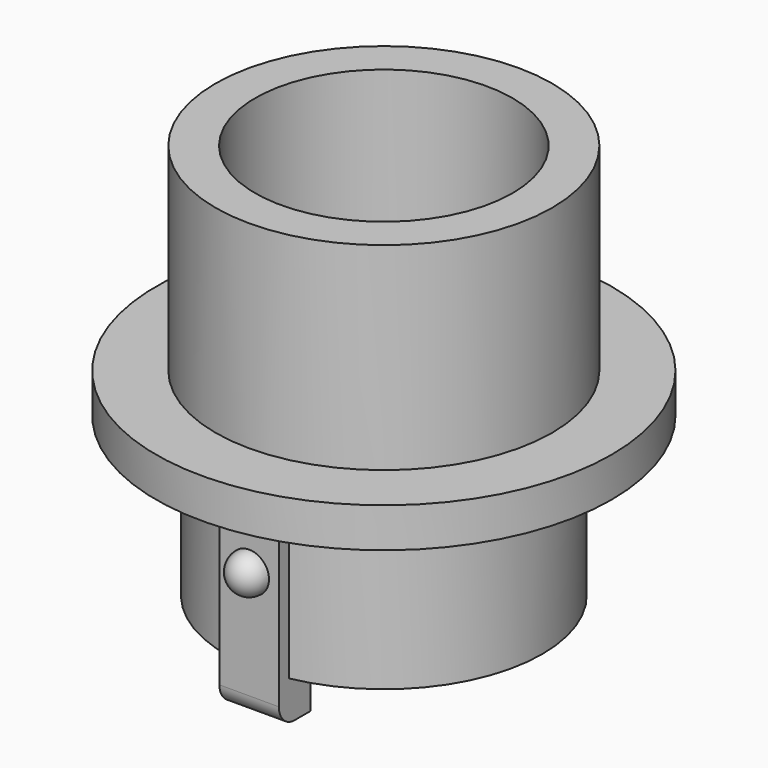
from build123d import *

# Parameters (mm, degrees)
SKETCH140_R         = 11.5
SKETCH140_R_2       = 6.5
PAD054_DEPTH        = 2
SKETCH141_R         = 8.5
SKETCH141_R_2       = 6.5
PAD055_DEPTH        = 10
SKETCH142_W         = 3
SKETCH142_H         = 2
PAD056_DEPTH        = 10
REVOLUTION015_ANGLE = -180
REVOLUTION016_ANGLE = -180
FILLET_R            = 1
SKETCH171_R         = 8
SKETCH171_R_2       = 6.5
PAD068_DEPTH        = 8


with BuildPart() as part:
    # Sketch140 → Pad054 (new body)
    with BuildSketch(Plane.XY):
        Circle(SKETCH140_R)
        Circle(SKETCH140_R_2, mode=Mode.SUBTRACT)
    extrude(amount=PAD054_DEPTH)

    # Sketch141 (on Face4 of Pad054) → Pad055 (join)
    with BuildSketch(Plane.XY.offset(2)):
        Circle(SKETCH141_R)
        Circle(SKETCH141_R_2, mode=Mode.SUBTRACT)
    extrude(amount=PAD055_DEPTH)

    # Sketch142 (on Face2 of Pad055) → Pad056 (join)
    with BuildSketch(Plane(origin=(0, 0, 0), x_dir=(1, 0, 0), z_dir=(0, 0, -1))):
        with Locations((0, 7.5)):
            Rectangle(SKETCH142_W, SKETCH142_H)
        with Locations((0, -7.5)):
            Rectangle(SKETCH142_W, SKETCH142_H)
    extrude(amount=PAD056_DEPTH)

    # Sketch154 (on Face11 of Pad056) → Revolution015 (revolve)
    with BuildSketch(Plane.XZ.offset(8.5)):
        with BuildLine():
            ThreePointArc((0, -4.5), (1, -3.5), (0, -2.5))
            Line((0, -2.5), (0, -4.5))
        make_face()
    revolve(axis=Axis((0, -8.5, 0), (0, 0, 1)), revolution_arc=REVOLUTION015_ANGLE)

    # Sketch155 (on Face7 of Revolution015) → Revolution016 (revolve)
    with BuildSketch(Plane(origin=(0, 8.5, 0), x_dir=(-1, 0, 0), z_dir=(0, 1, 0))):
        with BuildLine():
            ThreePointArc((0, -4.5), (1, -3.5), (0, -2.5))
            Line((0, -2.5), (0, -4.5))
        make_face()
    revolve(axis=Axis((0, 8.5, 0), (0, 0, 1)), revolution_arc=REVOLUTION016_ANGLE)

    # Fillet
    fillet_edges = [part.edges().sort_by_distance(p)[0] for p in [
        (0, 8.5, -10),
        (0, -8.5, -10),
    ]]
    fillet(fillet_edges, radius=FILLET_R)

    # Sketch171 (on Face6 of Fillet) → Pad068 (join)
    with BuildSketch(Plane(origin=(0, 0, 0), x_dir=(1, 0, 0), z_dir=(0, 0, -1))):
        Circle(SKETCH171_R)
        Circle(SKETCH171_R_2, mode=Mode.SUBTRACT)
    extrude(amount=PAD068_DEPTH)


with BuildPart() as part_1:
    # Body placement: moved
    add(part.part.moved(Location((0, 0, -10))))


solid = part_1.part
